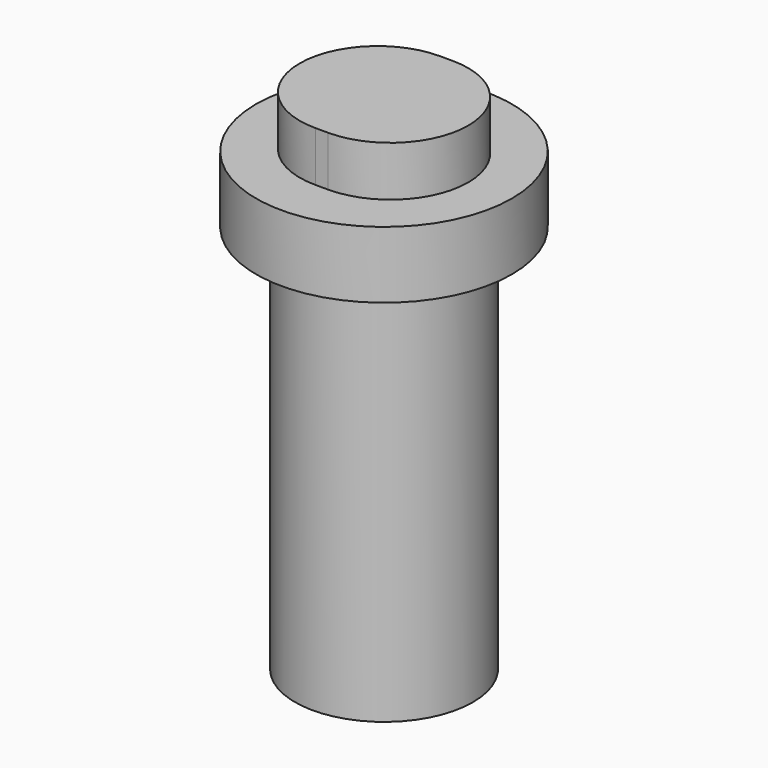
from build123d import *

# Parameters (mm, degrees)
F0_R     = 11.5
F1_DEPTH = 10.5
F2_R     = 8
F3_DEPTH = 35
F4_R     = 11.5
F5_DEPTH = 4.5


with BuildPart() as f1:
    # F0 (on Top) → F1 (new body)
    with BuildSketch(Plane.XY):
        Circle(F0_R)
    extrude(amount=F1_DEPTH)

    # F2 (on face) → F3 (join)
    with BuildSketch(Plane(origin=(0, 0, 0), x_dir=(1, 0, 0), z_dir=(0, 0, -1))):
        Circle(F2_R)
    extrude(amount=F3_DEPTH)

    # F4 (on face) → F5 (cut)
    with BuildSketch(Plane.XY.offset(10.5)):
        Circle(F4_R)
        with BuildLine():
            ThreePointArc((0.575, 7), (7.575, 0), (0.575, -7))
            Line((0.575, -7), (-0.575, -7))
            ThreePointArc((-0.575, -7), (-7.575, 0), (-0.575, 7))
            Line((-0.575, 7), (0.575, 7))
        make_face(mode=Mode.SUBTRACT)
    extrude(amount=-F5_DEPTH, mode=Mode.SUBTRACT)


solid = f1.part
